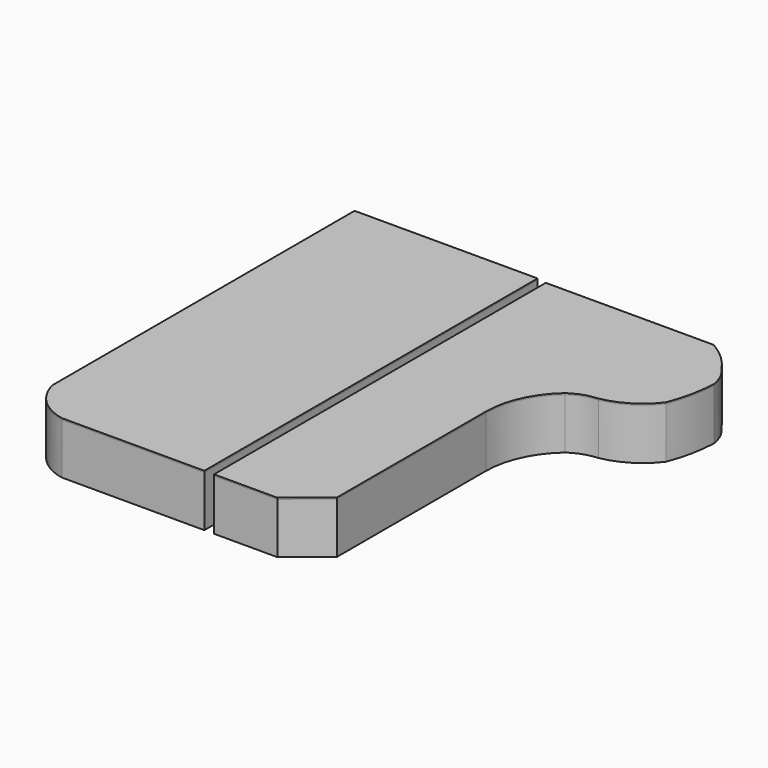
from build123d import *

# Parameters (mm, degrees)
F1_DEPTH = 18.542
F2_DEPTH = 18.034


with BuildPart() as f1:
    # F0 (on Top) → F1 (new body)
    with BuildSketch(Plane.XY):
        with BuildLine():
            Line((59.488475, 73.701829), (0, 73.701829))
            Line((0, 73.701829), (0, -73.222727))
            Line((0, -73.222727), (22.437934, -73.222727))
            Line((22.437934, -73.222727), (35.213981, -62.682487))
            Line((35.213981, -62.682487), (35.213981, 3.114162))
            ThreePointArc((35.213981, 3.114162), (37.89033, 15.405922), (45.434821, 25.472246))
            ThreePointArc((45.434821, 25.472246), (49.845404, 27.709378), (54.697454, 28.666258))
            ThreePointArc((54.697454, 28.666258), (63.606299, 32.126952), (70.667513, 38.567696))
            ThreePointArc((70.667513, 38.567696), (73.137766, 46.883733), (74.180923, 55.495959))
            ThreePointArc((74.180923, 55.495959), (72.610608, 59.527138), (70.509356, 63.308809))
            ThreePointArc((70.509356, 63.308809), (65.6247, 69.168908), (59.488475, 73.701829))
        make_face()
        with BuildLine():
            ThreePointArc((74.180923, 55.495959), (72.936045, 59.680073), (70.509356, 63.308809))
            ThreePointArc((70.509356, 63.308809), (72.610608, 59.527138), (74.180923, 55.495959))
        make_face()
        with BuildLine():
            Line((-3.433565, 74.340627), (-68.272009, 74.340627))
            Line((-68.272009, 74.340627), (-68.272009, -59.367958))
            ThreePointArc((-68.272009, -59.367958), (-63.14479, -68.431687), (-53.898953, -73.222727))
            Line((-53.898953, -73.222727), (-3.433565, -73.222727))
            Line((-3.433565, -73.222727), (-3.433565, 74.340627))
        make_face()
    extrude(amount=F1_DEPTH)


with BuildPart() as f2:
    # F0 (on Top) → F2 (new body)
    with BuildSketch(Plane.XY):
        with BuildLine():
            Line((59.488475, 73.701829), (0, 73.701829))
            Line((0, 73.701829), (0, -73.222727))
            Line((0, -73.222727), (22.437934, -73.222727))
            Line((22.437934, -73.222727), (35.213981, -62.682487))
            Line((35.213981, -62.682487), (35.213981, 3.114162))
            ThreePointArc((35.213981, 3.114162), (37.89033, 15.405922), (45.434821, 25.472246))
            ThreePointArc((45.434821, 25.472246), (49.845404, 27.709378), (54.697454, 28.666258))
            ThreePointArc((54.697454, 28.666258), (63.606299, 32.126952), (70.667513, 38.567696))
            ThreePointArc((70.667513, 38.567696), (73.137766, 46.883733), (74.180923, 55.495959))
            ThreePointArc((74.180923, 55.495959), (72.610608, 59.527138), (70.509356, 63.308809))
            ThreePointArc((70.509356, 63.308809), (65.6247, 69.168908), (59.488475, 73.701829))
        make_face()
        with BuildLine():
            ThreePointArc((74.180923, 55.495959), (72.936045, 59.680073), (70.509356, 63.308809))
            ThreePointArc((70.509356, 63.308809), (72.610608, 59.527138), (74.180923, 55.495959))
        make_face()
        with BuildLine():
            Line((-3.433565, 74.340627), (-68.272009, 74.340627))
            Line((-68.272009, 74.340627), (-68.272009, -59.367958))
            ThreePointArc((-68.272009, -59.367958), (-63.14479, -68.431687), (-53.898953, -73.222727))
            Line((-53.898953, -73.222727), (-3.433565, -73.222727))
            Line((-3.433565, -73.222727), (-3.433565, 74.340627))
        make_face()
    extrude(amount=F2_DEPTH)


solid = Compound([f1.part, f2.part])
